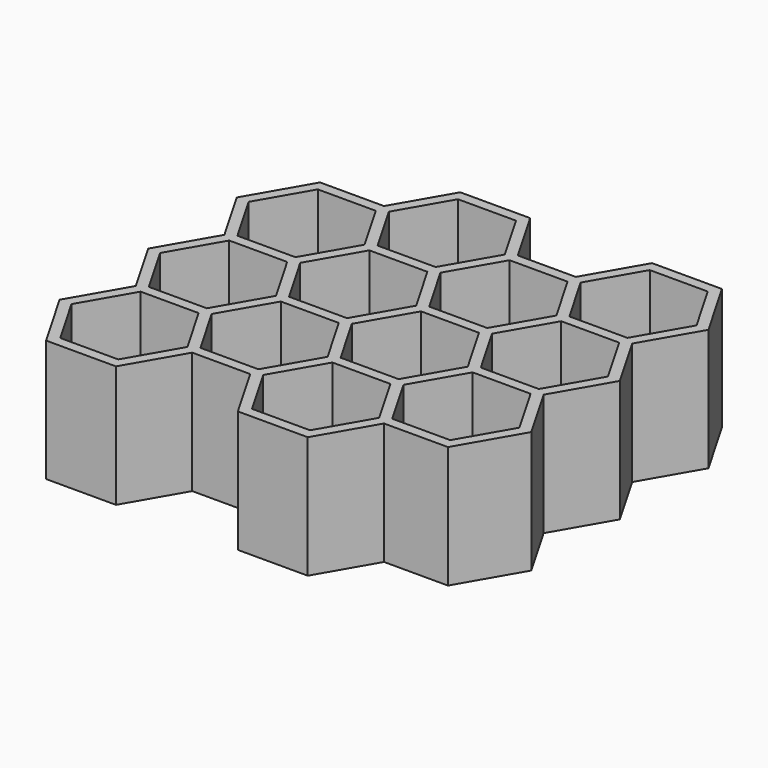
from build123d import *

# Parameters (mm, degrees)
F1_DEPTH = 21.6916
F3_DEPTH = 2
F0_R     = 3.175
F4_DEPTH = 2


with BuildPart() as f1:
    # F0 (on Top) → F1 (new body)
    with BuildSketch(Plane.XY):
        Polygon((-7.366008, 32.2749), (-13.577315, 21.5166), (-7.366008, 10.7583), (-13.577315, 0), (-6.788658, -11.7583), (6.788658, -11.7583), (12.999965, -1), (24.267879, -1), (30.479187, -11.7583), (44.056502, -11.7583), (50.267809, -1), (62.690424, -1), (69.479082, 10.7583), (63.267775, 21.5166), (69.479082, 32.2749), (63.267775, 43.0332), (69.479082, 53.7915), (62.690424, 65.5498), (49.113109, 65.5498), (42.901802, 54.7915), (31.633887, 54.7915), (25.42258, 65.5498), (11.845265, 65.5498), (5.633957, 54.7915), (-6.788658, 54.7915), (-13.577315, 43.0332), align=None)
        Polygon((-5.633957, 9.7583), (5.633957, 9.7583), (11.267914, 0), (5.633957, -9.7583), (-5.633957, -9.7583), (-11.267914, 0), align=None, mode=Mode.SUBTRACT)
        Polygon((11.267914, 21.5166), (5.633957, 11.7583), (-5.633957, 11.7583), (-11.267914, 21.5166), (-5.633957, 31.2749), (5.633957, 31.2749), align=None, mode=Mode.SUBTRACT)
        Polygon((12.999965, 20.5166), (24.267879, 20.5166), (29.901836, 10.7583), (24.267879, 1), (12.999965, 1), (7.366008, 10.7583), align=None, mode=Mode.SUBTRACT)
        Polygon((48.535759, 0), (42.901802, -9.7583), (31.633887, -9.7583), (25.99993, 0), (31.633887, 9.7583), (42.901802, 9.7583), align=None, mode=Mode.SUBTRACT)
        Polygon((25.99993, 21.5166), (31.633887, 31.2749), (42.901802, 31.2749), (48.535759, 21.5166), (42.901802, 11.7583), (31.633887, 11.7583), align=None, mode=Mode.SUBTRACT)
        Polygon((61.535724, 1), (50.267809, 1), (44.633852, 10.7583), (50.267809, 20.5166), (61.535724, 20.5166), (67.169681, 10.7583), align=None, mode=Mode.SUBTRACT)
        Polygon((11.267914, 43.0332), (5.633957, 33.2749), (-5.633957, 33.2749), (-11.267914, 43.0332), (-5.633957, 52.7915), (5.633957, 52.7915), align=None, mode=Mode.SUBTRACT)
        Polygon((24.267879, 22.5166), (12.999965, 22.5166), (7.366008, 32.2749), (12.999965, 42.0332), (24.267879, 42.0332), (29.901836, 32.2749), align=None, mode=Mode.SUBTRACT)
        Polygon((24.267879, 44.0332), (12.999965, 44.0332), (7.366008, 53.7915), (12.999965, 63.5498), (24.267879, 63.5498), (29.901836, 53.7915), align=None, mode=Mode.SUBTRACT)
        Polygon((25.99993, 43.0332), (31.633887, 52.7915), (42.901802, 52.7915), (48.535759, 43.0332), (42.901802, 33.2749), (31.633887, 33.2749), align=None, mode=Mode.SUBTRACT)
        Polygon((67.169681, 32.2749), (61.535724, 22.5166), (50.267809, 22.5166), (44.633852, 32.2749), (50.267809, 42.0332), (61.535724, 42.0332), align=None, mode=Mode.SUBTRACT)
        Polygon((50.267809, 63.5498), (61.535724, 63.5498), (67.169681, 53.7915), (61.535724, 44.0332), (50.267809, 44.0332), (44.633852, 53.7915), align=None, mode=Mode.SUBTRACT)
    extrude(amount=F1_DEPTH)

    # F2 (on face) → F3 (join)
    with BuildSketch(Plane(origin=(0, 0, 0), x_dir=(1, 0, 0), z_dir=(0, 0, -1))):
        Polygon((69.479082, -53.7915), (63.267775, -43.0332), (69.479082, -32.2749), (63.267775, -21.5166), (69.479082, -10.7583), (62.690424, 1), (50.267809, 1), (44.056502, 11.7583), (30.479187, 11.7583), (24.267879, 1), (12.999965, 1), (6.788658, 11.7583), (-6.788658, 11.7583), (-13.577315, 0), (-7.366008, -10.7583), (-13.577315, -21.5166), (-7.366008, -32.2749), (-13.577315, -43.0332), (-6.788658, -54.7915), (5.633957, -54.7915), (11.845265, -65.5498), (25.42258, -65.5498), (31.633887, -54.7915), (42.901802, -54.7915), (49.113109, -65.5498), (62.690424, -65.5498), align=None)
    extrude(amount=F3_DEPTH)

    # F0 (on Top) → F4 (cut, through all)
    with BuildSketch(Plane.XY):
        with Locations((0, 43.0332)):
            Circle(F0_R)
        with Locations((18.633922, 53.7915)):
            Circle(F0_R)
        with Locations((37.267844, 43.0332)):
            Circle(F0_R)
        with Locations((55.901767, 53.7915)):
            Circle(F0_R)
        with Locations((55.901767, 32.2749)):
            Circle(F0_R)
        with Locations((37.267844, 21.5166)):
            Circle(F0_R)
        with Locations((18.633922, 32.2749)):
            Circle(F0_R)
        with Locations((0, 21.5166)):
            Circle(F0_R)
        Circle(F0_R)
        with Locations((18.633922, 10.7583)):
            Circle(F0_R)
        with Locations((37.267844, 0)):
            Circle(F0_R)
        with Locations((55.901767, 10.7583)):
            Circle(F0_R)
    extrude(amount=-F4_DEPTH, mode=Mode.SUBTRACT)


solid = f1.part
